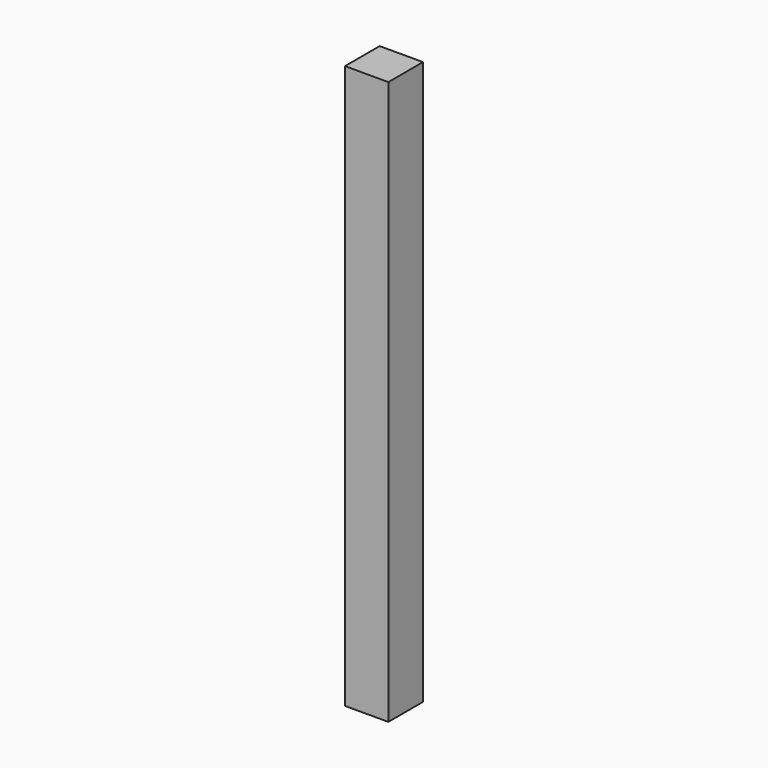
from build123d import *

# Parameters (mm, degrees)
RECTANGLE069_W   = 5
RECTANGLE069_H   = 10
EXTRUDE083_DEPTH = 5
RECTANGLE045_W   = 5
RECTANGLE045_H   = 75
EXTRUDE053_DEPTH = 5


with BuildPart() as extrude083:
    # Rectangle069 → Extrude083 (new body)
    with BuildSketch(Plane(origin=(-245, 40, 80), x_dir=(0, -1, 0), z_dir=(-1, 0, 0))):
        with Locations((2.5, 5)):
            Rectangle(RECTANGLE069_W, RECTANGLE069_H)
    extrude(amount=-EXTRUDE083_DEPTH)


with BuildPart() as cut004:
    # Rectangle045 → Extrude053 (new body)
    with BuildSketch(Plane(origin=(-140, 35, 15), x_dir=(0, 1, 0), z_dir=(1, 0, 0))):
        with Locations((2.5, 37.5)):
            Rectangle(RECTANGLE045_W, RECTANGLE045_H)
    extrude(amount=-EXTRUDE053_DEPTH)


with BuildPart() as cut004_1:
    # Extrude053 placement: moved
    add(cut004.part.moved(Location((-100, 0, 0))))

    # Cut004: cut Extrude083
    add(extrude083.part, mode=Mode.SUBTRACT)


solid = cut004_1.part
